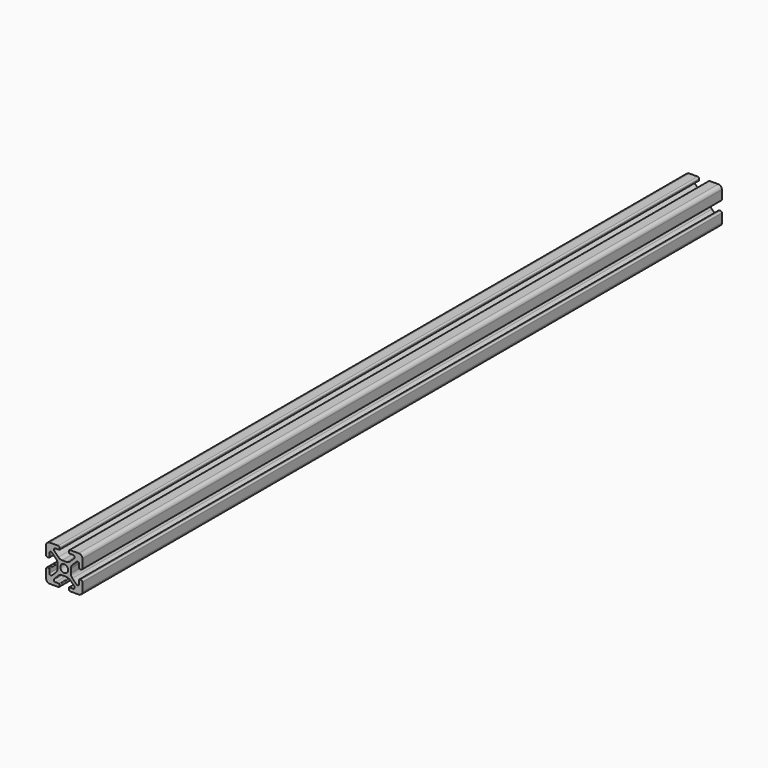
from build123d import *

# Parameters (mm, degrees)
F0_R     = 2.1463
F1_DEPTH = 440


with BuildPart() as f1:
    # F0 (on Front) → F1 (new body)
    with BuildSketch(Plane.XZ):
        with BuildLine():
            Line((-3.2893, 9.9949), (-7.9883, 9.9949))
            ThreePointArc((-7.9883, 9.9949), (-9.40718, 9.40718), (-9.9949, 7.9883))
            Line((-9.9949, 7.9883), (-9.9949, 3.2893))
            ThreePointArc((-9.9949, 3.2893), (-9.764276, 2.732524), (-9.2075, 2.5019))
            Line((-9.2075, 2.5019), (-8.4963, 2.5019))
            ThreePointArc((-8.4963, 2.5019), (-8.280774, 2.591174), (-8.1915, 2.8067))
            Line((-8.1915, 2.8067), (-8.1915, 4.9149))
            ThreePointArc((-8.1915, 4.9149), (-7.674065, 5.689296), (-6.760603, 5.507597))
            Line((-6.760603, 5.507597), (-4.505766, 3.25276))
            ThreePointArc((-4.505766, 3.25276), (-3.856054, 2.280398), (-3.627906, 1.133419))
            Line((-3.627906, 1.133419), (-3.627906, -1.133419))
            ThreePointArc((-3.627906, -1.133419), (-3.856054, -2.280398), (-4.505766, -3.25276))
            Line((-4.505766, -3.25276), (-6.760603, -5.507597))
            ThreePointArc((-6.760603, -5.507597), (-7.674065, -5.689296), (-8.1915, -4.9149))
            Line((-8.1915, -4.9149), (-8.1915, -2.8067))
            ThreePointArc((-8.1915, -2.8067), (-8.280774, -2.591174), (-8.4963, -2.5019))
            Line((-8.4963, -2.5019), (-9.2075, -2.5019))
            ThreePointArc((-9.2075, -2.5019), (-9.764276, -2.732524), (-9.9949, -3.2893))
            Line((-9.9949, -3.2893), (-9.9949, -7.9883))
            ThreePointArc((-9.9949, -7.9883), (-9.40718, -9.40718), (-7.9883, -9.9949))
            Line((-7.9883, -9.9949), (-3.2893, -9.9949))
            ThreePointArc((-3.2893, -9.9949), (-2.732524, -9.764276), (-2.5019, -9.2075))
            Line((-2.5019, -9.2075), (-2.5019, -8.4963))
            ThreePointArc((-2.5019, -8.4963), (-2.591174, -8.280774), (-2.8067, -8.1915))
            Line((-2.8067, -8.1915), (-4.9149, -8.1915))
            ThreePointArc((-4.9149, -8.1915), (-5.689296, -7.674065), (-5.507597, -6.760603))
            Line((-5.507597, -6.760603), (-3.25276, -4.505766))
            ThreePointArc((-3.25276, -4.505766), (-2.280398, -3.856054), (-1.133419, -3.627906))
            Line((-1.133419, -3.627906), (1.133419, -3.627906))
            ThreePointArc((1.133419, -3.627906), (2.280398, -3.856054), (3.25276, -4.505766))
            Line((3.25276, -4.505766), (5.507597, -6.760603))
            ThreePointArc((5.507597, -6.760603), (5.689296, -7.674065), (4.9149, -8.1915))
            Line((4.9149, -8.1915), (2.8067, -8.1915))
            ThreePointArc((2.8067, -8.1915), (2.591174, -8.280774), (2.5019, -8.4963))
            Line((2.5019, -8.4963), (2.5019, -9.2075))
            ThreePointArc((2.5019, -9.2075), (2.732524, -9.764276), (3.2893, -9.9949))
            Line((3.2893, -9.9949), (7.9883, -9.9949))
            ThreePointArc((7.9883, -9.9949), (9.40718, -9.40718), (9.9949, -7.9883))
            Line((9.9949, -7.9883), (9.9949, -3.2893))
            ThreePointArc((9.9949, -3.2893), (9.764276, -2.732524), (9.2075, -2.5019))
            Line((9.2075, -2.5019), (8.4963, -2.5019))
            ThreePointArc((8.4963, -2.5019), (8.280774, -2.591174), (8.1915, -2.8067))
            Line((8.1915, -2.8067), (8.1915, -4.9149))
            ThreePointArc((8.1915, -4.9149), (7.674065, -5.689296), (6.760603, -5.507597))
            Line((6.760603, -5.507597), (4.505766, -3.25276))
            ThreePointArc((4.505766, -3.25276), (3.856054, -2.280398), (3.627906, -1.133419))
            Line((3.627906, -1.133419), (3.627906, 1.133419))
            ThreePointArc((3.627906, 1.133419), (3.856054, 2.280398), (4.505766, 3.25276))
            Line((4.505766, 3.25276), (6.760603, 5.507597))
            ThreePointArc((6.760603, 5.507597), (7.674065, 5.689296), (8.1915, 4.9149))
            Line((8.1915, 4.9149), (8.1915, 2.8067))
            ThreePointArc((8.1915, 2.8067), (8.280774, 2.591174), (8.4963, 2.5019))
            Line((8.4963, 2.5019), (9.2075, 2.5019))
            ThreePointArc((9.2075, 2.5019), (9.764276, 2.732524), (9.9949, 3.2893))
            Line((9.9949, 3.2893), (9.9949, 7.9883))
            ThreePointArc((9.9949, 7.9883), (9.40718, 9.40718), (7.9883, 9.9949))
            Line((7.9883, 9.9949), (3.2893, 9.9949))
            ThreePointArc((3.2893, 9.9949), (2.732524, 9.764276), (2.5019, 9.2075))
            Line((2.5019, 9.2075), (2.5019, 8.4963))
            ThreePointArc((2.5019, 8.4963), (2.591174, 8.280774), (2.8067, 8.1915))
            Line((2.8067, 8.1915), (4.9149, 8.1915))
            ThreePointArc((4.9149, 8.1915), (5.689296, 7.674065), (5.507597, 6.760603))
            Line((5.507597, 6.760603), (3.25276, 4.505766))
            ThreePointArc((3.25276, 4.505766), (2.280398, 3.856054), (1.133419, 3.627906))
            Line((1.133419, 3.627906), (-1.133419, 3.627906))
            ThreePointArc((-1.133419, 3.627906), (-2.280398, 3.856054), (-3.25276, 4.505766))
            Line((-3.25276, 4.505766), (-5.507597, 6.760603))
            ThreePointArc((-5.507597, 6.760603), (-5.689296, 7.674065), (-4.9149, 8.1915))
            Line((-4.9149, 8.1915), (-2.8067, 8.1915))
            ThreePointArc((-2.8067, 8.1915), (-2.591174, 8.280774), (-2.5019, 8.4963))
            Line((-2.5019, 8.4963), (-2.5019, 9.2075))
            ThreePointArc((-2.5019, 9.2075), (-2.732524, 9.764276), (-3.2893, 9.9949))
        make_face()
        Circle(F0_R, mode=Mode.SUBTRACT)
    extrude(amount=F1_DEPTH)


solid = f1.part
